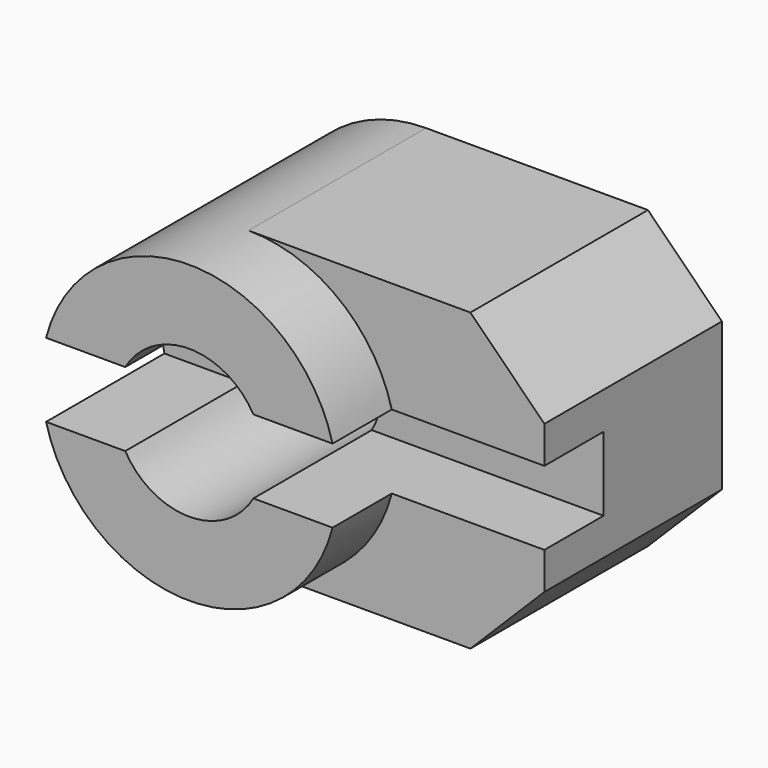
from build123d import *

# Parameters (mm, degrees)
F0_R          = 20
F1_DEPTH      = 40
F3_DEPTH      = 30
F4_R          = 10
F5_DEPTH      = 40.001
F6_W          = 20
F6_H          = 10
F7_DEPTH      = 20.001
F7_DEPTH_BACK = 40.001


with BuildPart() as f1:
    # F0 (on Front) → F1 (new body)
    with BuildSketch(Plane.XZ):
        Circle(F0_R)
    extrude(amount=F1_DEPTH)

    # F2 (on face) → F3 (join)
    with BuildSketch(Plane(origin=(0, 0, 0), x_dir=(-1, 0, 0), z_dir=(0, 1, 0))):
        with BuildLine():
            ThreePointArc((0, -20), (-20, 0), (0, 20))
            Line((0, 20), (-30, 20))
            Line((-30, 20), (-40, 10))
            Line((-40, 10), (-40, -10))
            Line((-40, -10), (-30, -20))
            Line((-30, -20), (0, -20))
        make_face()
    extrude(amount=-F3_DEPTH)

    # F4 (on face) → F5 (cut, through all)
    with BuildSketch(Plane.XZ.offset(40)):
        Circle(F4_R)
    extrude(amount=-F5_DEPTH, mode=Mode.SUBTRACT)

    # F6 (on Right) → F7 (cut, two sides)
    with BuildSketch(Plane.YZ) as f7_sk:
        with Locations((-30, 0)):
            Rectangle(F6_W, F6_H)
    extrude(amount=-F7_DEPTH, mode=Mode.SUBTRACT)
    extrude(f7_sk.sketch, amount=F7_DEPTH_BACK, mode=Mode.SUBTRACT)


solid = f1.part
